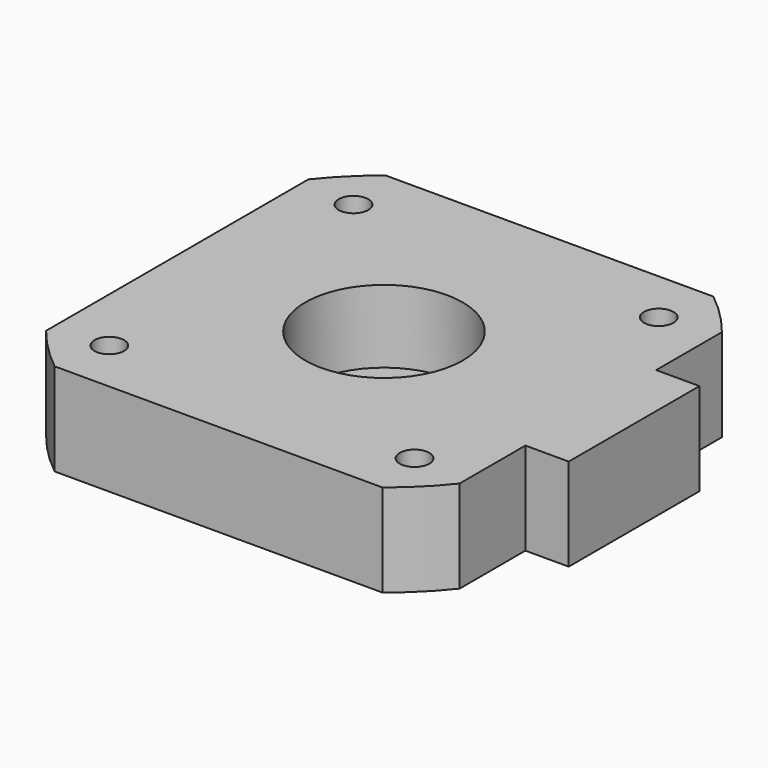
from build123d import *

# Parameters (mm, degrees)
SKETCH_R        = 4.5
SKETCH_R_2      = 1.5
PAD_DEPTH       = 9.4
SKETCH002_R     = 3.2
POCKET_DEPTH    = 3
SKETCH003_R     = 8
POCKET001_DEPTH = 8


with BuildPart() as part:
    # Sketch → Pad (new body)
    with BuildSketch(Plane.XY):
        with BuildLine():
            ThreePointArc((-16.650526, 21), (-18.950462, 18.950462), (-21, 16.650526))
            Line((-21, 16.650526), (-21, -16.650526))
            ThreePointArc((-21, -16.650526), (-18.950462, -18.950462), (-16.650526, -21))
            Line((-16.650526, -21), (16.650526, -21))
            ThreePointArc((16.650526, -21), (18.950462, -18.950462), (21, -16.650526))
            Line((21, -8.3), (21, -16.650526))
            Line((25.4, -8.3), (21, -8.3))
            Line((25.4, 8.3), (25.4, -8.3))
            Line((21, 8.3), (25.4, 8.3))
            Line((21, 16.650526), (21, 8.3))
            ThreePointArc((21, 16.650526), (18.950462, 18.950462), (16.650526, 21))
            Line((-16.650526, 21), (16.650526, 21))
        make_face()
        Circle(SKETCH_R, mode=Mode.SUBTRACT)
        with Locations((-15.5, 15.5)):
            Circle(SKETCH_R_2, mode=Mode.SUBTRACT)
        with Locations((15.5, 15.5)):
            Circle(SKETCH_R_2, mode=Mode.SUBTRACT)
        with Locations((15.5, -15.5)):
            Circle(SKETCH_R_2, mode=Mode.SUBTRACT)
        with Locations((-15.5, -15.5)):
            Circle(SKETCH_R_2, mode=Mode.SUBTRACT)
    extrude(amount=PAD_DEPTH)

    # Sketch002 → Pocket (cut)
    with BuildSketch(Plane.XY):
        with Locations((-15.5, 15.5)):
            Circle(SKETCH002_R)
        with Locations((15.5, 15.5)):
            Circle(SKETCH002_R)
        with Locations((15.5, -15.5)):
            Circle(SKETCH002_R)
        with Locations((-15.5, -15.5)):
            Circle(SKETCH002_R)
    extrude(amount=POCKET_DEPTH, mode=Mode.SUBTRACT)

    # Sketch003 → Pocket001 (cut)
    with BuildSketch(Plane.XY.offset(10)):
        Circle(SKETCH003_R)
    extrude(amount=-POCKET001_DEPTH, mode=Mode.SUBTRACT)


solid = part.part
